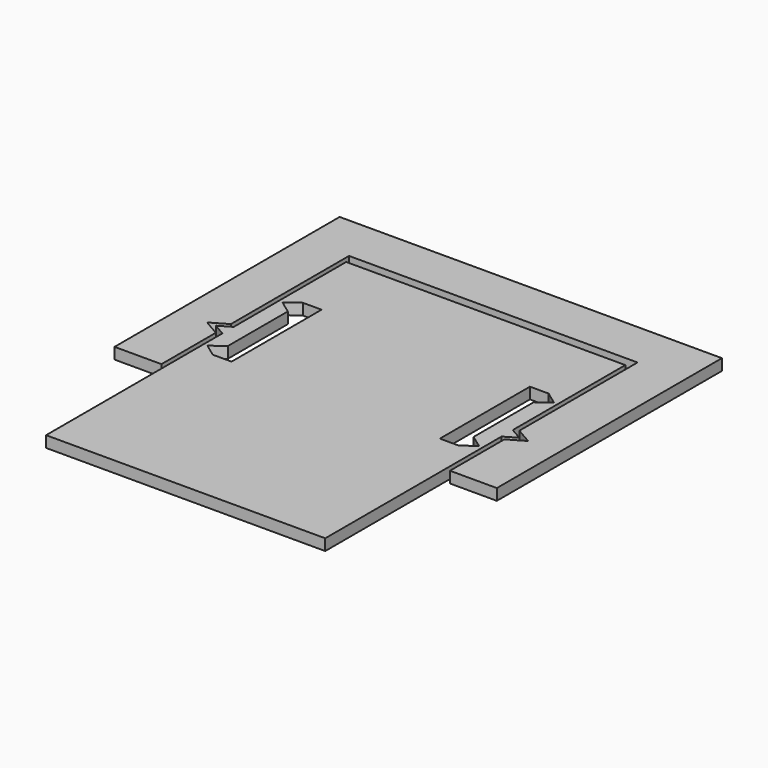
from build123d import *

# Parameters (mm, degrees)
F0_W     = 15.383
F0_H     = 5
F1_DEPTH = 1.2


with BuildPart() as f1:
    # F0 (on Top) → F1 (new body)
    with BuildSketch(Plane.XY):
        Polygon((14.881779, 19.921253), (0, 19.920042), (0, -20.078747), (14.883, -20.078747), (14.883, 3.421253), (16.182038, 4.171253), (14.883, 4.921253), align=None)
        Polygon((14.482511, 0.921253), (13.107739, -0.078747), (11.107739, -0.078747), (11.107739, 11.921253), (13.107739, 11.921253), (14.482511, 10.921253), (13.107739, 9.921253), (13.107739, 1.921253), align=None, mode=Mode.SUBTRACT)
        Polygon((0, -20.078747), (0, 19.920042), (-14.881779, 19.921253), (-14.883, 4.921253), (-16.182038, 4.171253), (-14.883, 3.421253), (-14.883, -20.078747), align=None)
        Polygon((-14.482511, 10.921253), (-13.107739, 11.921253), (-11.107739, 11.921253), (-11.107739, -0.078747), (-13.107739, -0.078747), (-14.482511, 0.921253), (-13.107739, 1.921253), (-13.107739, 9.921253), align=None, mode=Mode.SUBTRACT)
        Polygon((-20.383, -4.078747), (-15.383, -4.078747), (-15.383, 3.171253), (-17.115051, 4.171253), (-15.383, 5.171253), (-15.383, 20.921253), (-15.383, 25.921253), (-20.383, 25.921253), align=None)
        with Locations((-7.6915, 23.421253)):
            Rectangle(F0_W, F0_H)
        Polygon((20.383, 25.921253), (15.383, 25.921253), (15.383, 20.921253), (15.383, 5.171253), (17.115051, 4.171253), (15.383, 3.171253), (15.383, -4.078747), (20.383, -4.078747), align=None)
        with Locations((7.6915, 23.421253)):
            Rectangle(F0_W, F0_H)
    extrude(amount=F1_DEPTH)


solid = f1.part
